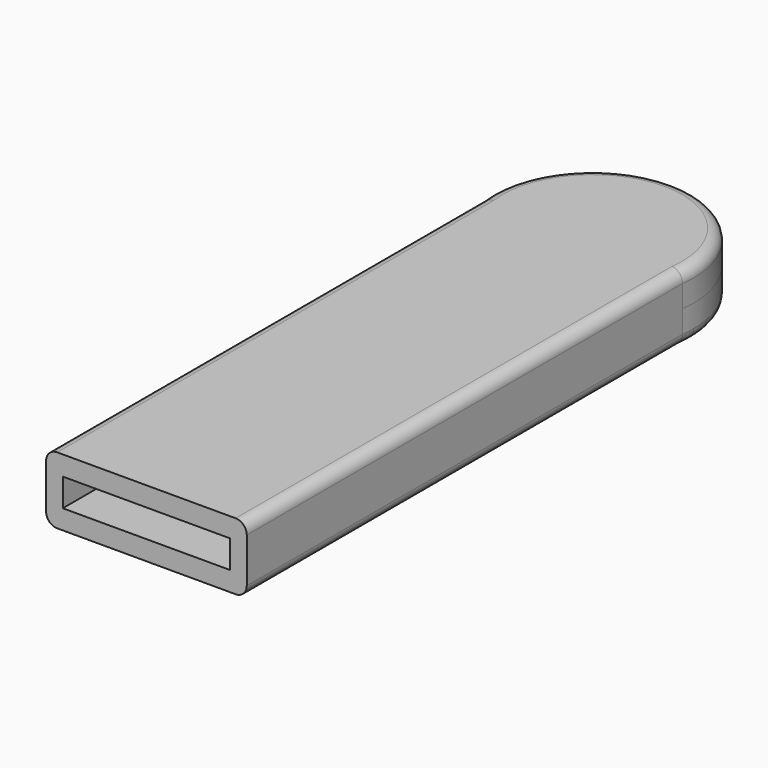
from build123d import *

# Parameters (mm, degrees)
F0_W     = 36
F0_H     = 12
F0_W_2   = 30
F0_H_2   = 5
F1_DEPTH = 100
F2_R     = 18.144786
F3_DEPTH = 6
F4_DEPTH = 6
F5_R     = 2
F6_R     = 2


with BuildPart() as f1:
    # F0 (on Front) → F1 (new body)
    with BuildSketch(Plane.XZ):
        Rectangle(F0_W, F0_H)
        Rectangle(F0_W_2, F0_H_2, mode=Mode.SUBTRACT)
    extrude(amount=F1_DEPTH)

    # F2 (on Top) → F3 (join)
    with BuildSketch(Plane.XY):
        Circle(F2_R)
    extrude(amount=F3_DEPTH)

    # F3_face (on face) → F4 (join)
    with BuildSketch(Plane(origin=(0, 0.170206, 0), x_dir=(1, 0, 0), z_dir=(0, 0, -1))):
        with BuildLine():
            ThreePointArc((-18, 2.457838), (0, -17.97458), (18, 2.457838))
            Line((18, 2.457838), (18, 0.170206))
            Line((18, 0.170206), (15, 0.170206))
            Line((15, 0.170206), (15, 10.379676))
            ThreePointArc((15, 10.379676), (0, 18.314992), (-15, 10.379676))
            Line((-15, 10.379676), (-15, 0.170206))
            Line((-15, 0.170206), (-18, 0.170206))
            Line((-18, 0.170206), (-18, 2.457838))
        make_face()
    extrude(amount=F4_DEPTH)

    # F5
    f5_edges = [f1.edges().sort_by_distance(p)[0] for p in [
        (18, -51.143816, 6),
        (0, 18.144786, 6),
        (-18, -51.143816, 6),
    ]]
    fillet(f5_edges, radius=F5_R)

    # F6
    f6_edges = [f1.edges().sort_by_distance(p)[0] for p in [
        (-18, -51.143816, -6),
        (0, 18.144786, -6),
        (18, -51.143816, -6),
    ]]
    fillet(f6_edges, radius=F6_R)


solid = f1.part
